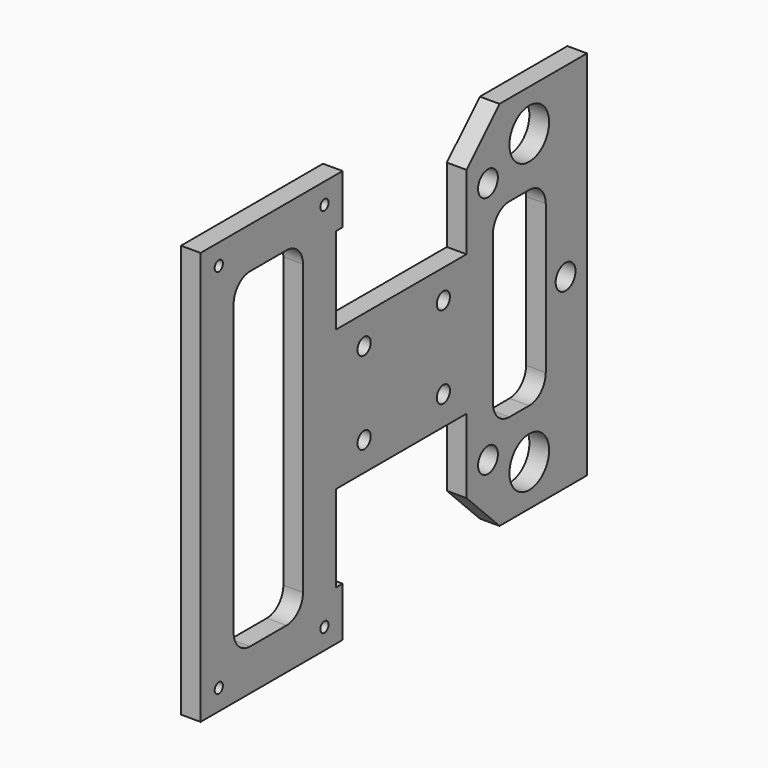
from build123d import *

# Parameters (mm, degrees)
F1_DEPTH = 4.763
F2_D     = 2.5
F3_D     = 4
F4_D     = 6
F5_D     = 12


with BuildPart() as f1:
    # F0 (on Right) → F1 (new body)
    with BuildSketch(Plane.YZ):
        Polygon((30, 17), (22, 17), (-17.5, 17), (-27.5, 17), (-27.5, 0), (-27.5, -17), (-17.5, -17), (22, -17), (30, -17), (30, 0), align=None)
        with BuildLine():
            Line((22, 35), (22, 17))
            Line((22, 17), (30, 17))
            Line((30, 17), (30, 18))
            ThreePointArc((30, 18), (31.4644660941, 21.5355339059), (35, 23))
            Line((35, 23), (41, 23))
            ThreePointArc((41, 23), (44.5355339059, 21.5355339059), (46, 18))
            Line((46, 18), (46, 17))
            Line((46, 17), (58.5, 17))
            Line((58.5, 17), (58.5, 45))
            Line((58.5, 45), (32, 45))
            Line((32, 45), (22, 35))
        make_face()
        with BuildLine():
            Line((-27.5, 17), (-17.5, 17))
            Line((-17.5, 17), (-17.5, 38))
            Line((-17.5, 38), (-15.5, 38))
            Line((-15.5, 38), (-15.5, 50))
            Line((-15.5, 50), (-21, 50))
            Line((-21, 50), (-53, 50))
            Line((-53, 50), (-58.5, 50))
            Line((-58.5, 50), (-58.5, 38))
            Line((-58.5, 38), (-58.5, 17))
            Line((-58.5, 17), (-48.5, 17))
            Line((-48.5, 17), (-48.5, 35))
            ThreePointArc((-48.5, 35), (-47.0355339059, 38.5355339059), (-43.5, 40))
            Line((-43.5, 40), (-32.5, 40))
            ThreePointArc((-32.5, 40), (-28.9644660941, 38.5355339059), (-27.5, 35))
            Line((-27.5, 35), (-27.5, 17))
        make_face()
        Polygon((58.5, 17), (46, 17), (46, 0), (46, -17), (58.5, -17), align=None)
        Polygon((-48.5, 0), (-48.5, 17), (-58.5, 17), (-58.5, -17), (-48.5, -17), align=None)
        with BuildLine():
            Line((30, -18), (30, -17))
            Line((30, -17), (22, -17))
            Line((22, -17), (22, -35))
            Line((22, -35), (32, -45))
            Line((32, -45), (58.5, -45))
            Line((58.5, -45), (58.5, -17))
            Line((58.5, -17), (46, -17))
            Line((46, -17), (46, -18))
            ThreePointArc((46, -18), (44.5355339059, -21.5355339059), (41, -23))
            Line((41, -23), (35, -23))
            ThreePointArc((35, -23), (31.4644660941, -21.5355339059), (30, -18))
        make_face()
        with BuildLine():
            Line((-17.5, -17), (-27.5, -17))
            Line((-27.5, -17), (-27.5, -35))
            ThreePointArc((-27.5, -35), (-28.9644660941, -38.5355339059), (-32.5, -40))
            Line((-32.5, -40), (-43.5, -40))
            ThreePointArc((-43.5, -40), (-47.0355339059, -38.5355339059), (-48.5, -35))
            Line((-48.5, -35), (-48.5, -17))
            Line((-48.5, -17), (-58.5, -17))
            Line((-58.5, -17), (-58.5, -38))
            Line((-58.5, -38), (-58.5, -50))
            Line((-58.5, -50), (-53, -50))
            Line((-53, -50), (-21, -50))
            Line((-21, -50), (-15.5, -50))
            Line((-15.5, -50), (-15.5, -38))
            Line((-15.5, -38), (-17.5, -38))
            Line((-17.5, -38), (-17.5, -17))
        make_face()
    extrude(amount=F1_DEPTH)

    # F2 (through all)
    with Locations(Plane(origin=(0, 0, 0), x_dir=(0, 1, 0), z_dir=(-1, 0, 0))):
        with Locations((-53, -45), (-21, -45), (-21, 45), (-53, 45)):
            Hole(F2_D / 2)

    # F3 (through all)
    with Locations(Plane(origin=(0, 0, 0), x_dir=(0, 1, 0), z_dir=(-1, 0, 0))):
        with Locations((-9, -10), (15, -10), (15, 10), (-9, 10)):
            Hole(F3_D / 2)

    # F4 (through all)
    with Locations(Plane(origin=(0, 0, 0), x_dir=(0, 1, 0), z_dir=(-1, 0, 0))):
        with Locations((52, 0), (28.5, 29.5), (28.5, -29.5)):
            Hole(F4_D / 2)

    # F5 (through all)
    with Locations(Plane(origin=(0, 0, 0), x_dir=(0, 1, 0), z_dir=(-1, 0, 0))):
        with Locations((41, -35), (41, 35)):
            Hole(F5_D / 2)


solid = f1.part
